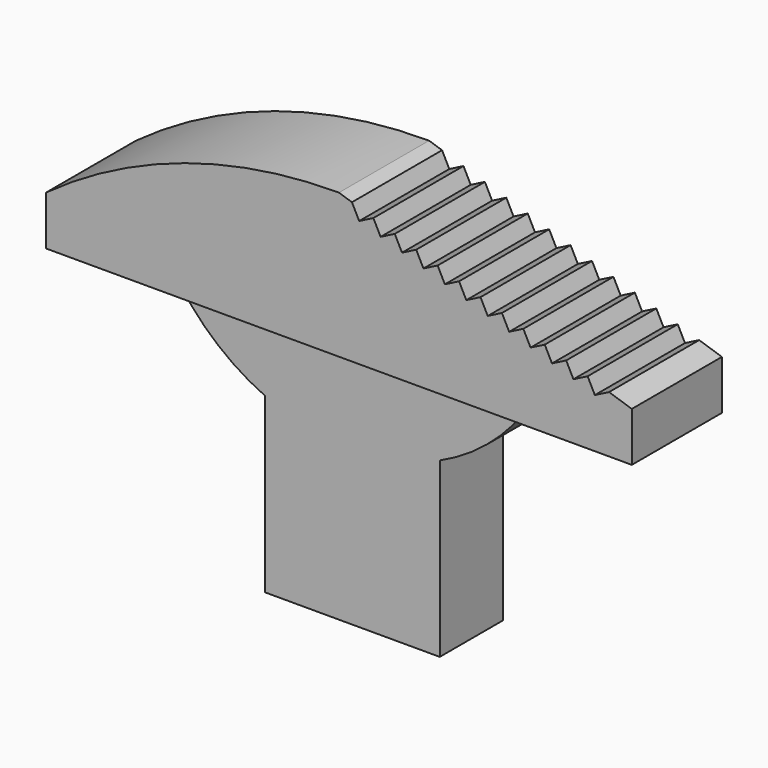
from build123d import *

# Parameters (mm, degrees)
F1_DEPTH      = 1.016
F1_DEPTH_BACK = 1.016
F2_DEPTH      = 0.7112
F2_DEPTH_BACK = 0.7112
F4_DEPTH      = 25.4


with BuildPart() as f1:
    # F0 (on Front) → F1 (new body, two sides)
    with BuildSketch(Plane.XZ) as f1_sk:
        with BuildLine():
            Line((-4.6784887666, 4.3793842609), (1.5288887666, 4.3793842609))
            Line((1.5288887666, 4.3793842609), (3.7084, 4.3793842609))
            Line((3.7084, 4.3793842609), (3.7084, 5.2683842609))
            Line((3.7084, 5.2683842609), (-1.5748, 6.985))
            ThreePointArc((-1.5748, 6.985), (-4.3539247834, 6.5499498923), (-6.858, 5.2683842609))
            Line((-6.858, 5.2683842609), (-6.858, 4.3793842609))
            Line((-6.858, 4.3793842609), (-4.6784887666, 4.3793842609))
        make_face()
    extrude(amount=F1_DEPTH)
    extrude(f1_sk.sketch, amount=-F1_DEPTH_BACK)

    # F0 (on Front) → F2 (join, two sides)
    with BuildSketch(Plane.XZ) as f2_sk:
        with BuildLine():
            Line((-3.1496, 0), (0, 0))
            Line((0, 0), (0, 3.1198752576))
            ThreePointArc((0, 3.1198752576), (0.8477307051, 3.6485304249), (1.5288887666, 4.3793842609))
            Line((1.5288887666, 4.3793842609), (-4.6784887666, 4.3793842609))
            ThreePointArc((-4.6784887666, 4.3793842609), (-3.9973307051, 3.6485304249), (-3.1496, 3.1198752576))
            Line((-3.1496, 3.1198752576), (-3.1496, 0))
        make_face()
    extrude(amount=F2_DEPTH)
    extrude(f2_sk.sketch, amount=-F2_DEPTH_BACK)

    # F3 (on face) → F4 (cut)
    with BuildSketch(Plane.XZ.offset(1.016)):
        Polygon((-1.2099161613, 6.65278493), (-0.9538692542, 6.7832473707), (-1.3403786224, 6.9088318772), align=None)
        Polygon((-0.8234067931, 6.5272004235), (-0.567359886, 6.6576628642), (-0.9538692542, 6.7832473707), align=None)
        Polygon((-0.4368974248, 6.401615917), (-0.1808505177, 6.5320783577), (-0.567359886, 6.6576628642), align=None)
        Polygon((-0.0503880566, 6.2760314105), (0.2056588505, 6.4064938511), (-0.1808505177, 6.5320783577), align=None)
        Polygon((0.3361213116, 6.1504469039), (0.5921682187, 6.2809093446), (0.2056588505, 6.4064938511), align=None)
        Polygon((0.7226306798, 6.0248623974), (0.9786775869, 6.1553248381), (0.5921682187, 6.2809093446), align=None)
        Polygon((1.1091400481, 5.8992778909), (1.3651869552, 6.0297403316), (0.9786775869, 6.1553248381), align=None)
        Polygon((1.4956494163, 5.7736933844), (1.7516963234, 5.9041558251), (1.3651869552, 6.0297403316), align=None)
        Polygon((1.8821587845, 5.6481088779), (2.1382056916, 5.7785713186), (1.7516963234, 5.9041558251), align=None)
        Polygon((2.2686681527, 5.5225243714), (2.5247150598, 5.6529868121), (2.1382056916, 5.7785713186), align=None)
        Polygon((2.6551775209, 5.3969398649), (2.911224428, 5.5274023055), (2.5247150598, 5.6529868121), align=None)
        Polygon((3.0416868892, 5.2713553583), (3.2977337963, 5.401817799), (2.911224428, 5.5274023055), align=None)
    extrude(amount=-F4_DEPTH, mode=Mode.SUBTRACT)


solid = f1.part
